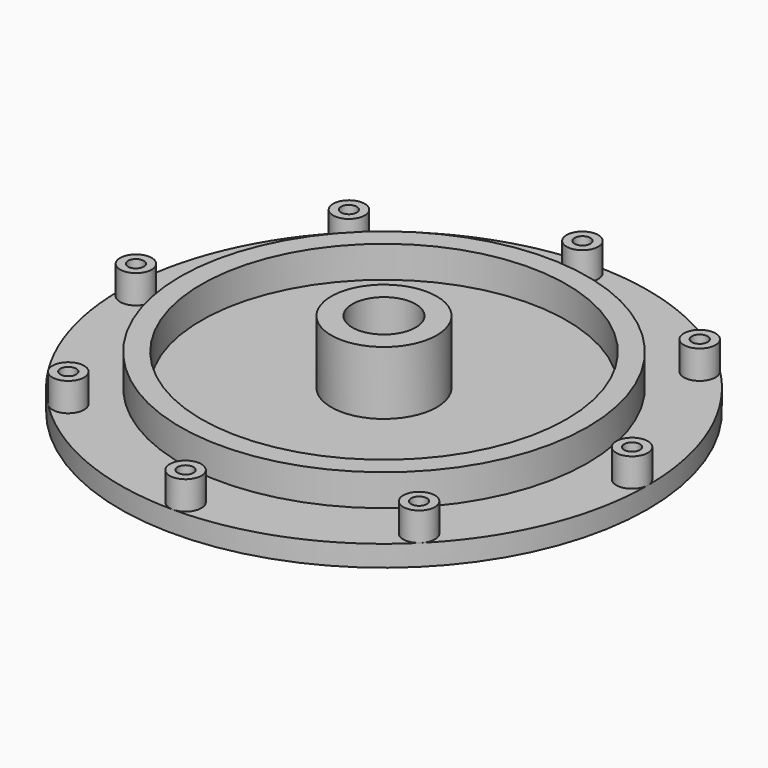
from build123d import *

# Parameters (mm, degrees)
F0_R     = 25
F0_R_2   = 3
F1_DEPTH = 2
F2_R     = 19.3
F2_R_2   = 17.3
F3_DEPTH = 3
F4_R     = 1.5
F5_DEPTH = 2.7
F6_R     = 5
F6_R_2   = 3
F7_DEPTH = 6
F8_R     = 0.75
F9_DEPTH = 1.5


with BuildPart() as f1:
    # F0 (on Top) → F1 (new body)
    with BuildSketch(Plane.XY):
        Circle(F0_R)
        Circle(F0_R_2, mode=Mode.SUBTRACT)
    extrude(amount=F1_DEPTH)

    # F2 (on face) → F3 (join)
    with BuildSketch(Plane.XY.offset(2)):
        Circle(F2_R)
        Circle(F2_R_2, mode=Mode.SUBTRACT)
    extrude(amount=F3_DEPTH)

    # F4 (on face) → F5 (join)
    with BuildSketch(Plane.XY.offset(2)):
        with Locations((0, 23.5)):
            Circle(F4_R)
        with Locations((-16.617009, 16.617009)):
            Circle(F4_R)
        with Locations((-23.5, 0)):
            Circle(F4_R)
        with Locations((-16.617009, -16.617009)):
            Circle(F4_R)
        with Locations((0, -23.5)):
            Circle(F4_R)
        with Locations((16.617009, -16.617009)):
            Circle(F4_R)
        with Locations((23.5, 0)):
            Circle(F4_R)
        with Locations((16.617009, 16.617009)):
            Circle(F4_R)
    extrude(amount=F5_DEPTH)

    # F6 (on face) → F7 (join)
    with BuildSketch(Plane.XY.offset(2)):
        Circle(F6_R)
        Circle(F6_R_2, mode=Mode.SUBTRACT)
    extrude(amount=F7_DEPTH)

    # F8 (on face) → F9 (cut)
    with BuildSketch(Plane.XY.offset(4.7)):
        with Locations((23.5, 0)):
            Circle(F8_R)
        with Locations((16.617009, 16.617009)):
            Circle(F8_R)
        with Locations((0, 23.5)):
            Circle(F8_R)
        with Locations((-16.617009, 16.617009)):
            Circle(F8_R)
        with Locations((-23.5, 0)):
            Circle(F8_R)
        with Locations((-16.617009, -16.617009)):
            Circle(F8_R)
        with Locations((0, -23.5)):
            Circle(F8_R)
        with Locations((16.617009, -16.617009)):
            Circle(F8_R)
    extrude(amount=-F9_DEPTH, mode=Mode.SUBTRACT)


solid = f1.part
